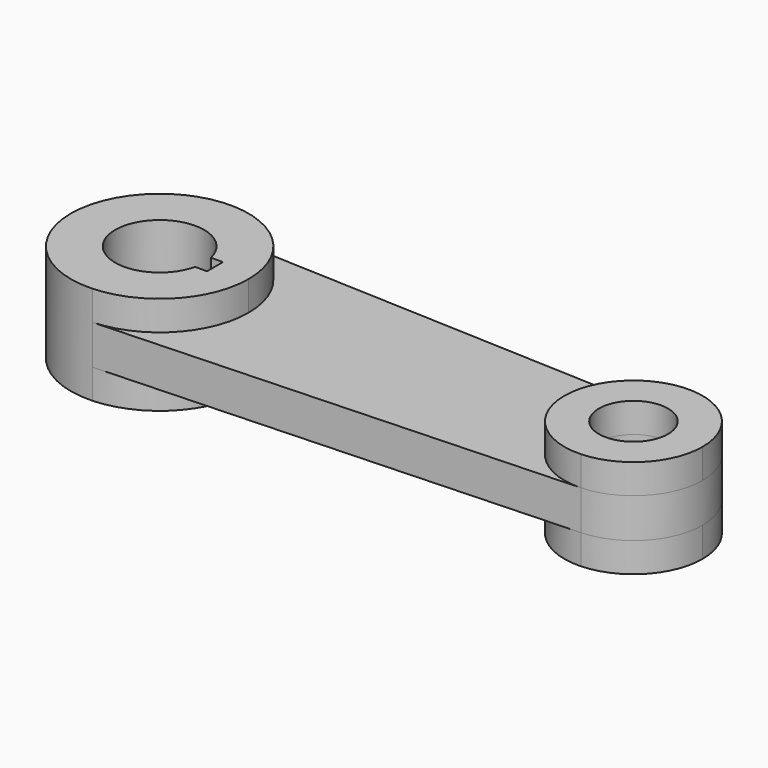
from build123d import *

# Parameters (mm, degrees)
F0_R          = 21.9
F1_DEPTH      = 12.5
F1_DEPTH_BACK = 12.5
F2_R          = 21.9
F3_DEPTH      = 18.75


with BuildPart() as f1:
    # F0 (on Top) → F1 (new body, two sides)
    with BuildSketch(Plane.XY) as f1_sk:
        with BuildLine():
            Line((151.822917, 43.712006), (-147.65625, 56.201151))
            ThreePointArc((-147.65625, 56.201151), (-206.25, 0), (-147.65625, -56.201151))
            Line((-147.65625, -56.201151), (151.822917, -43.712006))
            ThreePointArc((151.822917, -43.712006), (193.75, 0), (151.822917, 43.712006))
        make_face()
        with BuildLine():
            ThreePointArc((-122.564029, -6.3), (-178.15, 0), (-122.564029, 6.3))
            Line((-122.564029, 6.3), (-115, 6.3))
            Line((-115, 6.3), (-115, -6.3))
            Line((-115, -6.3), (-122.564029, -6.3))
        make_face(mode=Mode.SUBTRACT)
        with Locations((150, 0)):
            Circle(F0_R, mode=Mode.SUBTRACT)
    extrude(amount=F1_DEPTH)
    extrude(f1_sk.sketch, amount=-F1_DEPTH_BACK)

    # F2 (on face) → F3 (join)
    with BuildSketch(Plane.XY.offset(12.5)):
        with BuildLine():
            ThreePointArc((-147.65625, -56.201151), (-109.405059, -38.937299), (-93.75, 0))
            ThreePointArc((-93.75, 0), (-109.405059, 38.937299), (-147.65625, 56.201151))
            ThreePointArc((-147.65625, 56.201151), (-206.25, 0), (-147.65625, -56.201151))
        make_face()
        with BuildLine():
            ThreePointArc((-122.564029, -6.3), (-178.15, 0), (-122.564029, 6.3))
            Line((-122.564029, 6.3), (-115, 6.3))
            Line((-115, 6.3), (-115, -6.3))
            Line((-115, -6.3), (-122.564029, -6.3))
        make_face(mode=Mode.SUBTRACT)
        with BuildLine():
            ThreePointArc((193.75, 0), (181.573843, 30.284566), (151.822917, 43.712006))
            ThreePointArc((151.822917, 43.712006), (106.25, 0), (151.822917, -43.712006))
            ThreePointArc((151.822917, -43.712006), (181.573843, -30.284566), (193.75, 0))
        make_face()
        with Locations((150, 0)):
            Circle(F2_R, mode=Mode.SUBTRACT)
    extrude(amount=F3_DEPTH)

    # F4: F1 across plane


with BuildPart() as f1_1:
    add(f1.part)
    add(f1.part.mirror(Plane.XY))


solid = f1_1.part
